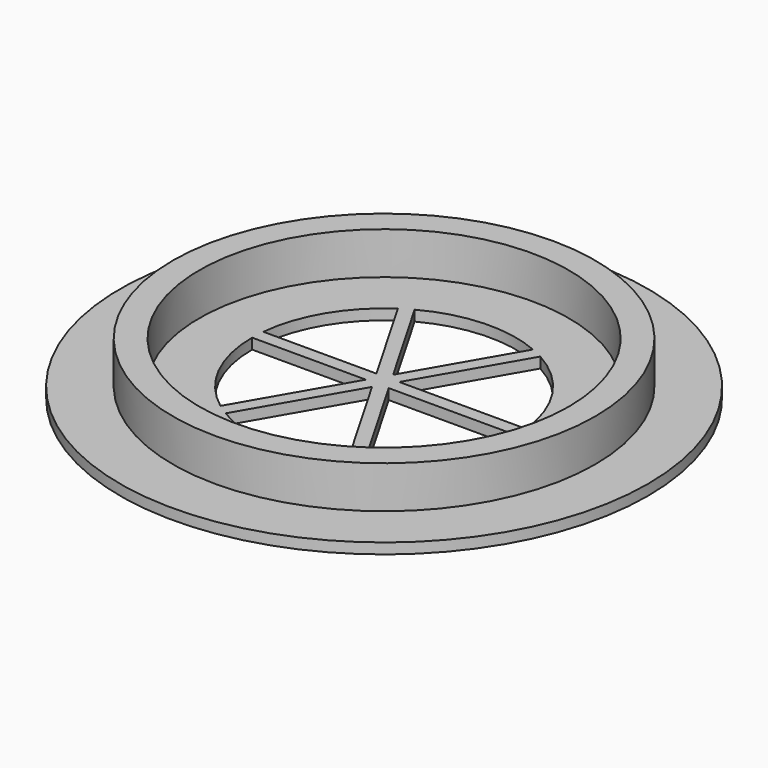
from build123d import *

# Parameters (mm, degrees)
BOX_W                  = 22
BOX_H                  = 1
BOX_DEPTH              = 0.8
BOX001_W               = 22
BOX001_H               = 1
BOX001_DEPTH           = 0.8
BOX001_PLACEMENT_ANGLE = 60
BOX002_W               = 22
BOX002_H               = 1
BOX002_DEPTH           = 0.8
BOX002_PLACEMENT_ANGLE = -60
CYLINDER003_R          = 14
CYLINDER003_DEPTH      = 4
CYLINDER002_R          = 16
CYLINDER002_DEPTH      = 4
CYLINDER001_R          = 10
CYLINDER001_DEPTH      = 1
CYLINDER_R             = 20
CYLINDER_DEPTH         = 0.8


with BuildPart() as box:
    # Box → Box (new body)
    with BuildSketch(Plane(origin=(-11, 0, 0), x_dir=(1, 0, 0), z_dir=(0, 0, 1))):
        with Locations((11, 0.5)):
            Rectangle(BOX_W, BOX_H)
    extrude(amount=BOX_DEPTH)


with BuildPart() as box001:
    # Box001 → Box001 (new body)
    with BuildSketch(Plane.XY):
        with Locations((11, 0.5)):
            Rectangle(BOX001_W, BOX001_H)
    extrude(amount=BOX001_DEPTH)


with BuildPart() as box001_1:
    # Box001 placement: moved
    add(box001.part.moved(Location((-6, -10, 0))).rotate(Axis((-6, -10, 0), (0, 0, 1)), BOX001_PLACEMENT_ANGLE))


with BuildPart() as box002:
    # Box002 → Box002 (new body)
    with BuildSketch(Plane.XY):
        with Locations((11, 0.5)):
            Rectangle(BOX002_W, BOX002_H)
    extrude(amount=BOX002_DEPTH)


with BuildPart() as box002_1:
    # Box002 placement: moved
    add(box002.part.moved(Location((-6, 9, 0))).rotate(Axis((-6, 9, 0), (0, 0, 1)), BOX002_PLACEMENT_ANGLE))


with BuildPart() as shoulder_in:
    # Cylinder003 → Cylinder003 (new body)
    with BuildSketch(Plane.XY):
        Circle(CYLINDER003_R)
    extrude(amount=CYLINDER003_DEPTH)


with BuildPart() as shoulder:
    # Cylinder002 → Cylinder002 (new body)
    with BuildSketch(Plane.XY):
        Circle(CYLINDER002_R)
    extrude(amount=CYLINDER002_DEPTH)

    # Cut001: cut shoulder_in
    add(shoulder_in.part, mode=Mode.SUBTRACT)


with BuildPart() as hole:
    # Cylinder001 → Cylinder001 (new body)
    with BuildSketch(Plane.XY):
        Circle(CYLINDER001_R)
    extrude(amount=CYLINDER001_DEPTH)


with BuildPart() as bottom:
    # Cylinder → Cylinder (new body)
    with BuildSketch(Plane.XY):
        Circle(CYLINDER_R)
    extrude(amount=CYLINDER_DEPTH)

    # Cut: cut hole
    add(hole.part, mode=Mode.SUBTRACT)

    # Fusion: union Box, Box001, Box002, shoulder
    add(box.part)
    add(box001_1.part)
    add(box002_1.part)
    add(shoulder.part)


solid = bottom.part
